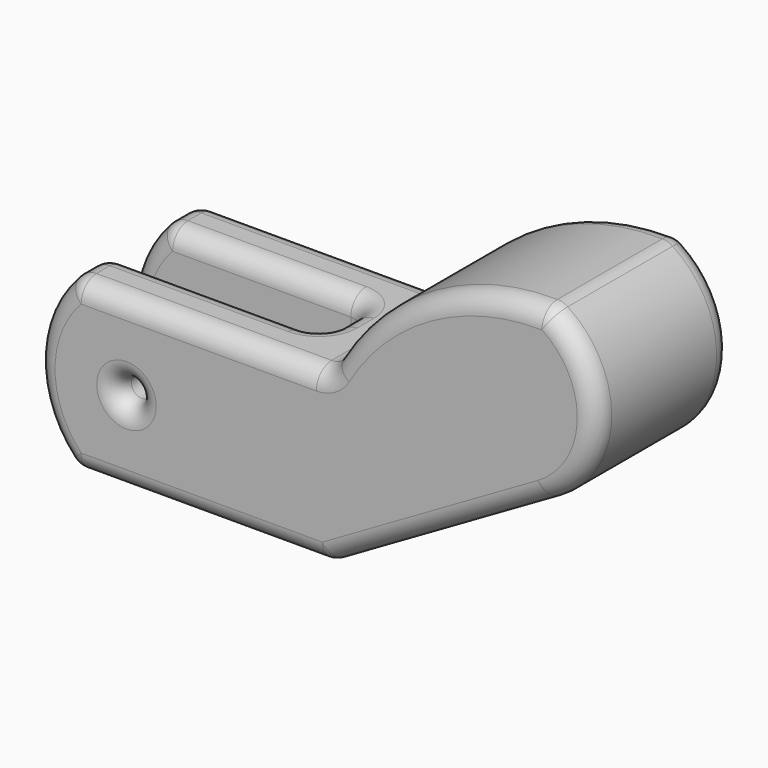
from build123d import *

# Parameters (mm, degrees)
F0_R     = 1.2446254
F1_DEPTH = 20
F3_DEPTH = 20
F4_R     = 2.2606


with BuildPart() as f1:
    # F0 (on Front) → F1 (new body)
    with BuildSketch(Plane.XZ):
        with BuildLine():
            Line((0, 0), (30, 0))
            Line((30, 0), (30, 20))
            Line((30, 20), (0, 20))
            ThreePointArc((0, 20), (-4.4245788407, 10), (0, 0))
        make_face()
        with Locations((6.268847, 10)):
            Circle(F0_R, mode=Mode.SUBTRACT)
        Polygon((30, 20), (30, 0), (55.9807621135, 15), (55.9807621135, 35), align=None)
        with BuildLine():
            ThreePointArc((55.9807621135, 35), (40.8406963478, 31.2233631362), (30, 20))
            Line((30, 20), (55.9807621135, 35))
        make_face()
        with BuildLine():
            Line((55.9807621135, 35), (55.9807621135, 15))
            ThreePointArc((55.9807621135, 15), (61.7542648054, 25), (55.9807621135, 35))
        make_face()
    extrude(amount=F1_DEPTH)

    # F2 (on face) → F3 (cut)
    with BuildSketch(Plane(origin=(0, 0, 0), x_dir=(1, 0, 0), z_dir=(0, 0, -1))):
        Polygon((14.5615497604, 13.5), (14.5497629419, 13.5), (-6.2621072866, 13.5), (-6.2621072866, 10), (-6.2621072866, 6.5), (-6.2419539317, 6.5), (24.2178927134, 6.5), (24.2178927134, 13.5), align=None)
    extrude(amount=-F3_DEPTH, mode=Mode.SUBTRACT)

    # F4
    f4_edges = [f1.edges().sort_by_distance(p)[0] for p in [
        (15, 0, 0),
        (42.990381, 0, 7.5),
        (61.754265, 0, 25),
        (40.840696, 0, 31.223363),
        (15, 0, 20),
        (-4.424579, 0, 10),
        (5.024222, 0, 10),
        (0, -3.25, 20),
        (12.108946, -6.5, 20),
        (24.217893, -10, 20),
        (12.108946, -13.5, 20),
        (0, -16.75, 20),
        (15, -20, 20),
        (30, -10, 20),
        (55.980762, -10, 35),
        (40.840696, -20, 31.223363),
        (55.980762, -10, 15),
        (61.754265, -20, 25),
        (30, -10, 0),
        (42.990381, -20, 7.5),
        (15, -20, 0),
        (0, -16.75, 0),
        (12.108946, -13.5, 0),
        (24.217893, -10, 0),
        (12.108946, -6.5, 0),
        (0, -3.25, 0),
        (-4.424579, -20, 10),
        (5.024222, -20, 10),
        (24.217893, -6.5, 10),
        (24.217893, -13.5, 10),
        (-4.424579, -6.5, 10),
        (5.024222, -6.5, 10),
        (-4.424579, -13.5, 10),
        (5.024222, -13.5, 10),
    ]]
    fillet(f4_edges, radius=F4_R)


solid = f1.part
